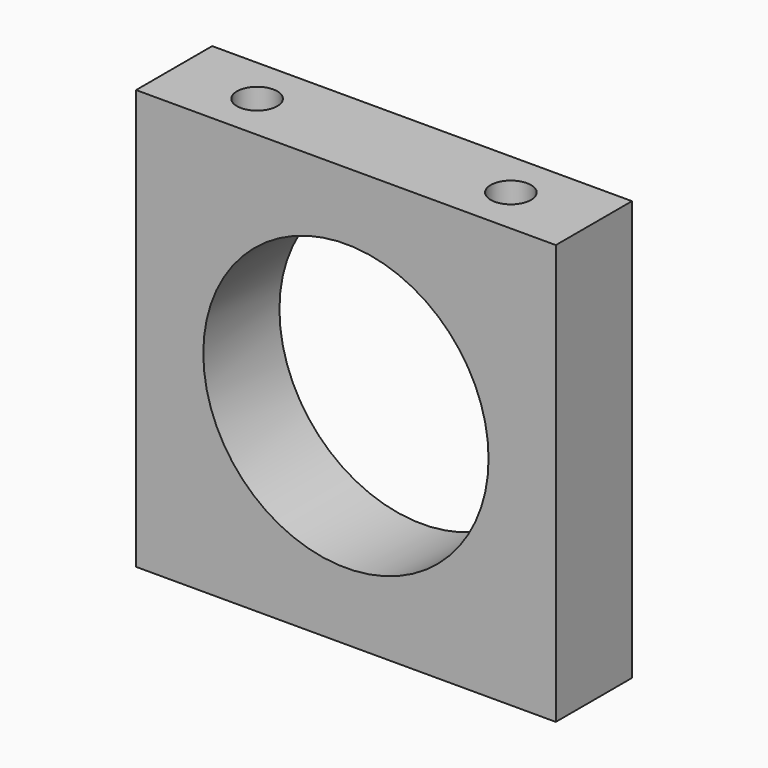
from build123d import *

# Parameters (mm, degrees)
F0_W     = 42.0116
F0_H     = 42.0116
F0_R     = 14.2748
F1_DEPTH = 9.525
F2_R     = 2.0193
F3_DEPTH = 11.1125
F4_R     = 2.0193
F5_DEPTH = 11.1125


with BuildPart() as f1:
    # F0 (on Front) → F1 (new body)
    with BuildSketch(Plane.XZ):
        Rectangle(F0_W, F0_H)
        Circle(F0_R, mode=Mode.SUBTRACT)
    extrude(amount=F1_DEPTH)

    # F2 (on face) → F3 (cut)
    with BuildSketch(Plane.XY.offset(21.0058)):
        with Locations((-12.7, -4.7625)):
            Circle(F2_R)
        with Locations((12.7, -4.7625)):
            Circle(F2_R)
    extrude(amount=-F3_DEPTH, mode=Mode.SUBTRACT)

    # F4 (on face) → F5 (cut)
    with BuildSketch(Plane(origin=(0, 0, -21.0058), x_dir=(1, 0, 0), z_dir=(0, 0, -1))):
        with Locations((-12.7, 4.7625)):
            Circle(F4_R)
        with Locations((12.7, 4.7625)):
            Circle(F4_R)
    extrude(amount=-F5_DEPTH, mode=Mode.SUBTRACT)


solid = f1.part
